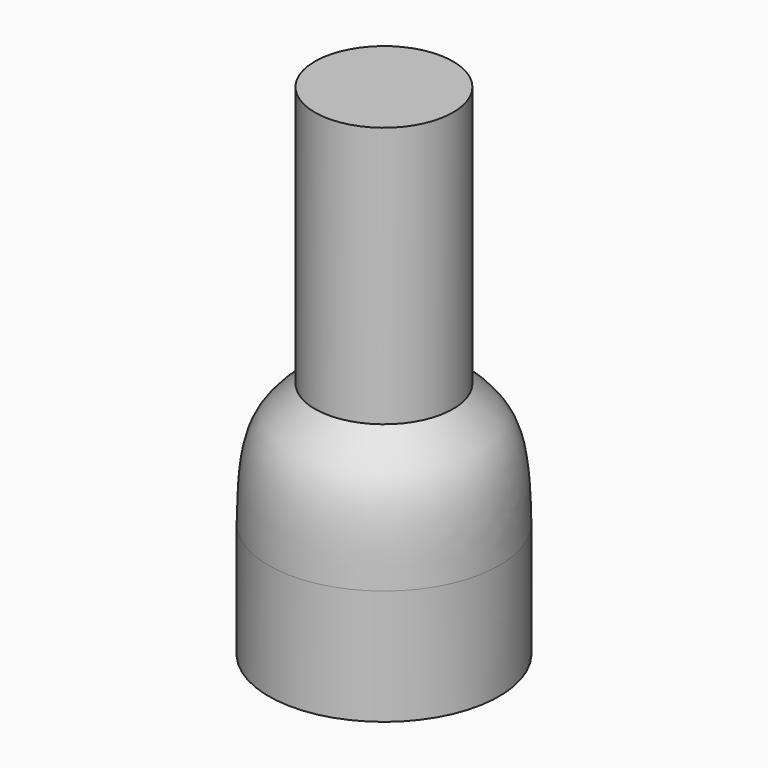
from build123d import *


with BuildPart() as f1:
    # F0 (on Front) → F1 (revolve)
    with BuildSketch(Plane.XZ):
        with BuildLine():
            Line((0, 0), (0, 65))
            Line((0, 65), (-9, 65))
            Line((-9, 65), (-9, 31))
            add(Edge.make_bspline(
                [(-9, 31), (-10.1576058965, 29.9255546114), (-14.4904040055, 26.5110107494), (-14.8596465588, 20.9581181407), (-15, 15)],
                knots=[0, 0, 0, 0, 0.412832659, 1, 1, 1, 1], degree=3))
            Line((-15, 15), (-15, 0))
            Line((-15, 0), (0, 0))
        make_face()
    revolve(axis=Axis((0, 0, 32.5), (0, 0, -1)))


solid = f1.part
